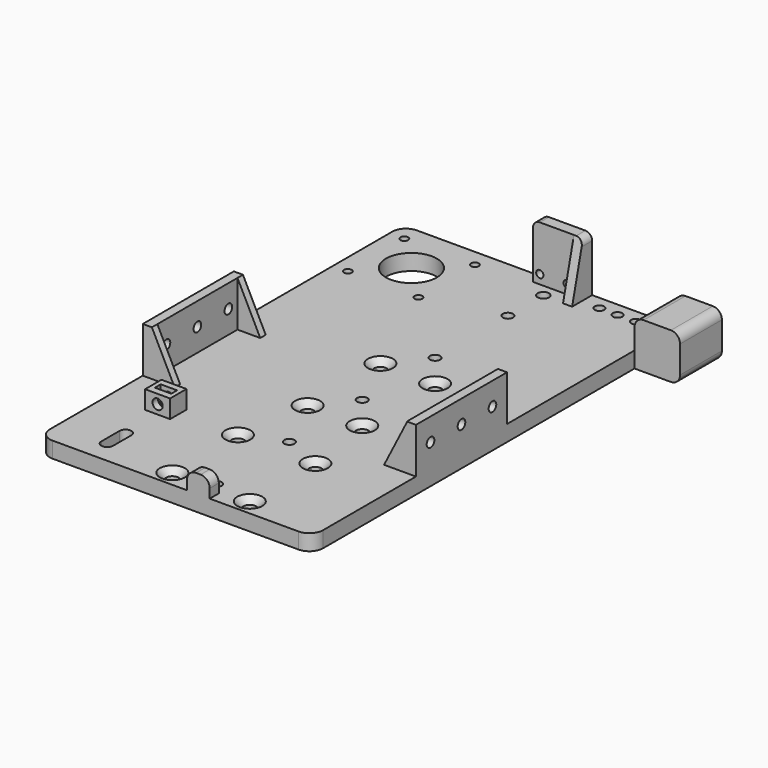
from build123d import *

# Parameters (mm, degrees)
SKETCH_W         = 120
SKETCH_H         = 200
PAD_DEPTH        = 7
HOLE_D           = 5.5
HOLE_CSINK_D     = 11
HOLE_CSINK_ANGLE = 90
SKETCH002_R      = 2.25
HOLE001_DEPTH    = 7.001
SKETCH003_W      = 10
SKETCH003_H      = 5
PAD001_DEPTH     = 8
SKETCH004_R      = 11.2
SKETCH004_R_2    = 1.7
POCKET_DEPTH     = 13
SKETCH005_W      = 4
SKETCH005_H      = 50
PAD002_DEPTH     = 20
PAD009_DEPTH     = 3
PAD010_DEPTH     = 3
SKETCH019_W      = 11
SKETCH019_H      = 9
SKETCH019_W_2    = 7.2
SKETCH019_H_2    = 3.2
PAD011_DEPTH     = 8
SKETCH020_R      = 2
POCKET001_DEPTH  = 14
SKETCH022_W      = 18
SKETCH022_H      = 31
PAD012_DEPTH     = 5
PAD013_DEPTH     = 4
SKETCH024_R      = 2.5
POCKET003_DEPTH  = 7
SKETCH026_W      = 23
SKETCH026_H      = 20
PAD014_DEPTH     = 20
SKETCH030_R      = 2.1
POCKET004_DEPTH  = 7
SKETCH031_R      = 1.6
POCKET005_DEPTH  = 5
SKETCH032_W      = 14
SKETCH032_H      = 16
POCKET006_DEPTH  = 20
SKETCH034_R      = 2.1
POCKET008_DEPTH  = 120
SKETCH035_R      = 2.239489
POCKET009_DEPTH  = 12
FILLET_R         = 3
FILLET001_R      = 4
FILLET002_R      = 6
FILLET003_R      = 4


with BuildPart() as part:
    # Sketch → Pad (new body)
    with BuildSketch(Plane.XY):
        with Locations((-10, 100)):
            Rectangle(SKETCH_W, SKETCH_H)
    extrude(amount=PAD_DEPTH)

    # Hole (through all)
    with Locations(Plane.XY.offset(7)):
        with Locations((17, 7), (17, 43), (-17, 43), (-17, 7), (12, 115), (12, 75), (-12, 115), (-12, 75)):
            CounterSinkHole(HOLE_D / 2, HOLE_CSINK_D / 2, counter_sink_angle=HOLE_CSINK_ANGLE)

    # Sketch002 (on Face5 of Hole) → Hole001 (cut, through all)
    with BuildSketch(Plane.XY.offset(7)):
        with Locations((0, 10)):
            Circle(SKETCH002_R)
        with Locations((0, 50)):
            Circle(SKETCH002_R)
        with Locations((0, 90)):
            Circle(SKETCH002_R)
        with Locations((0, 130)):
            Circle(SKETCH002_R)
        with Locations((0, 170)):
            Circle(SKETCH002_R)
    extrude(amount=-HOLE001_DEPTH, mode=Mode.SUBTRACT)

    # Sketch003 (on Face5 of Hole001) → Pad001 (join)
    with BuildSketch(Plane.XY.offset(7)):
        with Locations((-2e-06, 2.5)):
            Rectangle(SKETCH003_W, SKETCH003_H)
    extrude(amount=PAD001_DEPTH)

    # Sketch004 (on Face5 of Pad001) → Pocket (cut)
    with BuildSketch(Plane.XY.offset(7)):
        with Locations((-48, 177)):
            Circle(SKETCH004_R)
        with Locations((-63.5, 192.5)):
            Circle(SKETCH004_R_2)
        with Locations((-32.5, 192.5)):
            Circle(SKETCH004_R_2)
        with Locations((-32.5, 161.5)):
            Circle(SKETCH004_R_2)
        with Locations((-63.5, 161.5)):
            Circle(SKETCH004_R_2)
        with BuildLine():
            ThreePointArc((-50.6, 10), (-48, 7.4), (-45.4, 10))
            Line((-45.4, 10), (-45.4, 20))
            ThreePointArc((-45.4, 20), (-48, 22.6), (-50.6, 20))
            Line((-50.6, 20), (-50.6, 10))
        make_face()
    extrude(amount=-POCKET_DEPTH, mode=Mode.SUBTRACT)

    # Sketch005 (on DatumPlane) → Pad002 (join)
    with BuildSketch(Plane.XY.offset(7)):
        with Locations((-68, 82)):
            Rectangle(SKETCH005_W, SKETCH005_H)
        with Locations((48, 82)):
            Rectangle(SKETCH005_W, SKETCH005_H)
    extrude(amount=PAD002_DEPTH)

    # Sketch017 (on DatumPlane) → Pad009 (join)
    with BuildSketch(Plane(origin=(0, 107, 0), x_dir=(-1, 0, 0), z_dir=(0, 1, 0))):
        Polygon((66, 7), (66, 27), (56, 7), align=None)
        Polygon((-46, 27), (-46, 7), (-36, 7), align=None)
    extrude(amount=-PAD009_DEPTH)

    # Sketch018 (on DatumPlane) → Pad010 (join)
    with BuildSketch(Plane.XZ.offset(-57)):
        Polygon((-66, 7), (-66, 27), (-56, 7), align=None)
        Polygon((46, 7), (46, 26.679939), (36, 7), align=None)
    extrude(amount=-PAD010_DEPTH)

    # Sketch019 (on Face5 of Pad010) → Pad011 (join)
    with BuildSketch(Plane.XY.offset(7)):
        with Locations((-48, 42.132326)):
            Rectangle(SKETCH019_W, SKETCH019_H)
        with Locations((-48, 42.232326)):
            Rectangle(SKETCH019_W_2, SKETCH019_H_2, mode=Mode.SUBTRACT)
    extrude(amount=PAD011_DEPTH)

    # Sketch020 → Pocket001 (cut)
    with BuildSketch(Plane(origin=(0, 50.499198, 0), x_dir=(-1, 0, 0), z_dir=(0, 1, 0))):
        with Locations((28, 12)):
            Circle(SKETCH020_R)
    extrude(amount=-POCKET001_DEPTH, mode=Mode.SUBTRACT)

    # Sketch022 (on DatumPlane) → Pad012 (join)
    with BuildSketch(Plane(origin=(0, 200, 0), x_dir=(-1, 0, 0), z_dir=(0, 1, 0))):
        with Locations((0, 15.5)):
            Rectangle(SKETCH022_W, SKETCH022_H)
    extrude(amount=-PAD012_DEPTH)

    # Sketch023 (on DatumPlane) → Pad013 (join)
    with BuildSketch(Plane.YZ.offset(9)):
        Polygon((200, 7), (189, 7), (195, 31), (200, 31), align=None)
    extrude(amount=PAD013_DEPTH)

    # Sketch024 (on Face5 of Pad013) → Pocket003 (cut)
    with BuildSketch(Plane.XY.offset(7)):
        with Locations((0, 189.428879)):
            Circle(SKETCH024_R)
    extrude(amount=-POCKET003_DEPTH, mode=Mode.SUBTRACT)

    # Sketch026 (on DatumPlane) → Pad014 (join)
    with BuildSketch(Plane.YZ.offset(50)):
        with Locations((188.5, 10)):
            Rectangle(SKETCH026_W, SKETCH026_H)
    extrude(amount=PAD014_DEPTH)

    # Sketch030 → Pocket004 (cut)
    with BuildSketch(Plane.XY.offset(7)):
        with Locations((21.000004, 193.991192)):
            Circle(SKETCH030_R)
        with Locations((29.000004, 193.989173)):
            Circle(SKETCH030_R)
        with Locations((37.000002, 193.994382)):
            Circle(SKETCH030_R)
        with Locations((45, 194)):
            Circle(SKETCH030_R)
    extrude(amount=-POCKET004_DEPTH, mode=Mode.SUBTRACT)

    # Sketch031 (on Face90 of Pocket004) → Pocket005 (cut)
    with BuildSketch(Plane(origin=(0, 200, 0), x_dir=(-1, 0, 0), z_dir=(0, 1, 0))):
        with Locations((-6, 11)):
            Circle(SKETCH031_R)
        with Locations((6, 11)):
            Circle(SKETCH031_R)
    extrude(amount=-POCKET005_DEPTH, mode=Mode.SUBTRACT)

    # Sketch032 (on Face86 of Pocket005) → Pocket006 (cut)
    with BuildSketch(Plane(origin=(0, 200, 0), x_dir=(-1, 0, 0), z_dir=(0, 1, 0))):
        with Locations((-60, 10)):
            Rectangle(SKETCH032_W, SKETCH032_H)
    extrude(amount=-POCKET006_DEPTH, mode=Mode.SUBTRACT)

    # Sketch034 (on DatumPlane) → Pocket008 (cut)
    with BuildSketch(Plane(origin=(-70, 0, 0), x_dir=(0, -1, 0), z_dir=(-1, 0, 0))):
        with Locations((-99, 17)):
            Circle(SKETCH034_R)
        with Locations((-82, 17)):
            Circle(SKETCH034_R)
        with Locations((-65, 17)):
            Circle(SKETCH034_R)
    extrude(amount=-POCKET008_DEPTH, mode=Mode.SUBTRACT)

    # Sketch035 (on Face55 of Pad011) → Pocket009 (cut)
    with BuildSketch(Plane(origin=(0, 46.632326, 0), x_dir=(-1, 0, 0), z_dir=(0, 1, 0))):
        with Locations((47.996092, 10.986399)):
            Circle(SKETCH035_R)
    extrude(amount=-POCKET009_DEPTH, mode=Mode.SUBTRACT)

    # Fillet
    fillet_edges = [part.edges().sort_by_distance(p)[0] for p in [
        (-9, 197.5, 31),
        (13, 197.5, 31),
    ]]
    fillet(fillet_edges, radius=FILLET_R)

    # Fillet001
    fillet001_edges = [part.edges().sort_by_distance(p)[0] for p in [
        (50, 188.5, 20),
        (70, 188.5, 20),
        (70, 188.5, 0),
    ]]
    fillet(fillet001_edges, radius=FILLET001_R)

    # Fillet002
    fillet002_edges = [part.edges().sort_by_distance(p)[0] for p in [
        (-70, 200, 3.5),
        (50, 0, 3.5),
        (-70, 0, 3.5),
    ]]
    fillet(fillet002_edges, radius=FILLET002_R)

    # Fillet003
    fillet003_edges = [part.edges().sort_by_distance(p)[0] for p in [
        (-5.000002, 2.5, 15),
        (4.999998, 2.5, 15),
    ]]
    fillet(fillet003_edges, radius=FILLET003_R)


solid = part.part
